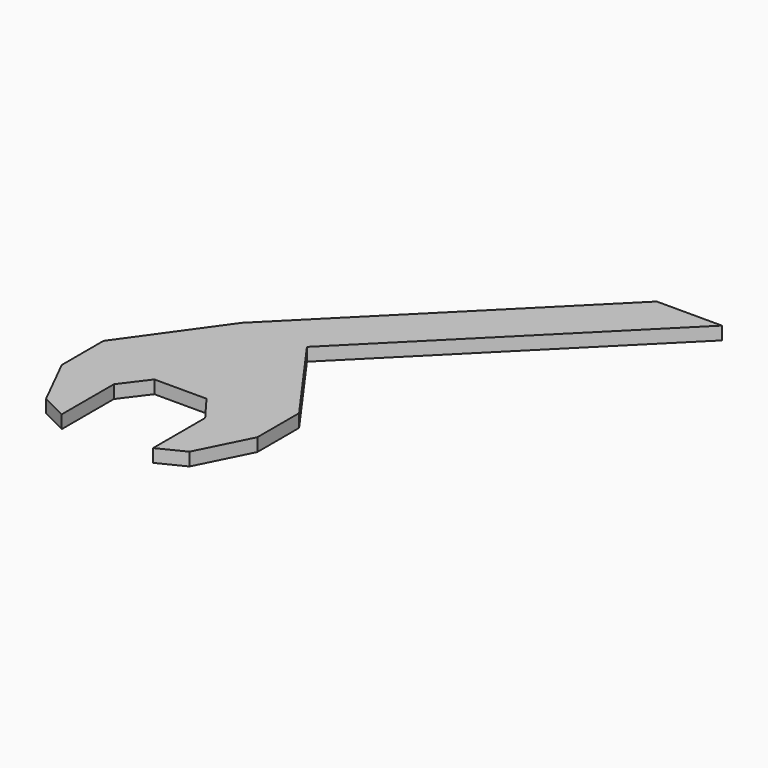
from build123d import *

# Parameters (mm, degrees)
F1_DEPTH = 10


with BuildPart() as f1:
    # F0 (on Top) → F1 (new body)
    with BuildSketch(Plane.XY):
        Polygon((-35, -20), (-20, 0), (20, 0), (35, -20), (35, -70), (55, -60), (75, -20), (75, 20), (25, 90), (201.776695, 266.776695), (151.776695, 266.776695), (-25, 90), (-75, 20), (-75, -20), (-55, -60), (-35, -70), align=None)
    extrude(amount=F1_DEPTH)


solid = f1.part
